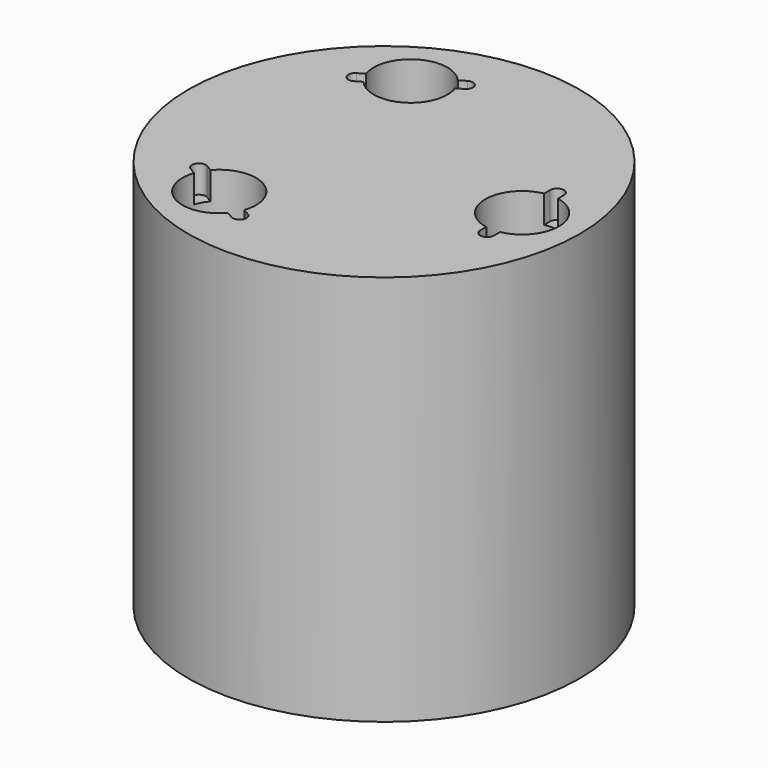
from build123d import *

# Parameters (mm, degrees)
F0_R     = 42.5
F0_R_2   = 8
F1_DEPTH = 85
F3_DEPTH = 6


with BuildPart() as f1:
    # F0 (on Top) → F1 (new body)
    with BuildSketch(Plane.XY):
        Circle(F0_R)
        with Locations((-15, -25.9807621135)):
            Circle(F0_R_2, mode=Mode.SUBTRACT)
        with Locations((-15, 25.9807621135)):
            Circle(F0_R_2, mode=Mode.SUBTRACT)
        with Locations((30, 0)):
            Circle(F0_R_2, mode=Mode.SUBTRACT)
    extrude(amount=F1_DEPTH)

    # F2 (on face) → F3 (cut)
    with BuildSketch(Plane.XY.offset(85)):
        with BuildLine():
            ThreePointArc((28.5, 7.8581168228), (30, 8), (31.5, 7.8581168228))
            Line((31.5, 7.8581168228), (31.5, 9.5))
            ThreePointArc((31.5, 9.5), (30, 11), (28.5, 9.5))
            Line((28.5, 9.5), (28.5, 7.8581168228))
        make_face()
        with BuildLine():
            Line((31.5, -9.5), (31.5, -7.8581168228))
            ThreePointArc((31.5, -7.8581168228), (30, -8), (28.5, -7.8581168228))
            Line((28.5, -7.8581168228), (28.5, -9.5))
            ThreePointArc((28.5, -9.5), (30, -11), (31.5, -9.5))
        make_face()
        with BuildLine():
            Line((-8.9446712056, -31.2088586306), (-7.522758664, -32.0298002192))
            ThreePointArc((-7.522758664, -32.0298002192), (-5.4737205584, -31.4807621135), (-6.022758664, -29.4317240079))
            Line((-6.022758664, -29.4317240079), (-7.4446712056, -28.6107824192))
            ThreePointArc((-7.4446712056, -28.6107824192), (-8.0717967697, -29.9807621135), (-8.9446712056, -31.2088586306))
        make_face()
        with BuildLine():
            Line((-23.977241336, -22.5298002192), (-22.5553287944, -23.3507418078))
            ThreePointArc((-22.5553287944, -23.3507418078), (-21.9282032303, -21.9807621135), (-21.0553287944, -20.7526655965))
            Line((-21.0553287944, -20.7526655965), (-22.477241336, -19.9317240079))
            ThreePointArc((-22.477241336, -19.9317240079), (-24.5262794416, -20.4807621135), (-23.977241336, -22.5298002192))
        make_face()
        with BuildLine():
            Line((-22.5553287944, 23.3507418078), (-23.977241336, 22.5298002192))
            ThreePointArc((-23.977241336, 22.5298002192), (-24.5262794416, 20.4807621135), (-22.477241336, 19.9317240079))
            Line((-22.477241336, 19.9317240079), (-21.0553287944, 20.7526655965))
            ThreePointArc((-21.0553287944, 20.7526655965), (-21.9282032303, 21.9807621135), (-22.5553287944, 23.3507418078))
        make_face()
        with BuildLine():
            Line((-7.522758664, 32.0298002192), (-8.9446712056, 31.2088586306))
            ThreePointArc((-8.9446712056, 31.2088586306), (-8.0717967697, 29.9807621135), (-7.4446712056, 28.6107824192))
            Line((-7.4446712056, 28.6107824192), (-6.022758664, 29.4317240079))
            ThreePointArc((-6.022758664, 29.4317240079), (-5.4737205584, 31.4807621135), (-7.522758664, 32.0298002192))
        make_face()
    extrude(amount=-F3_DEPTH, mode=Mode.SUBTRACT)


solid = f1.part
